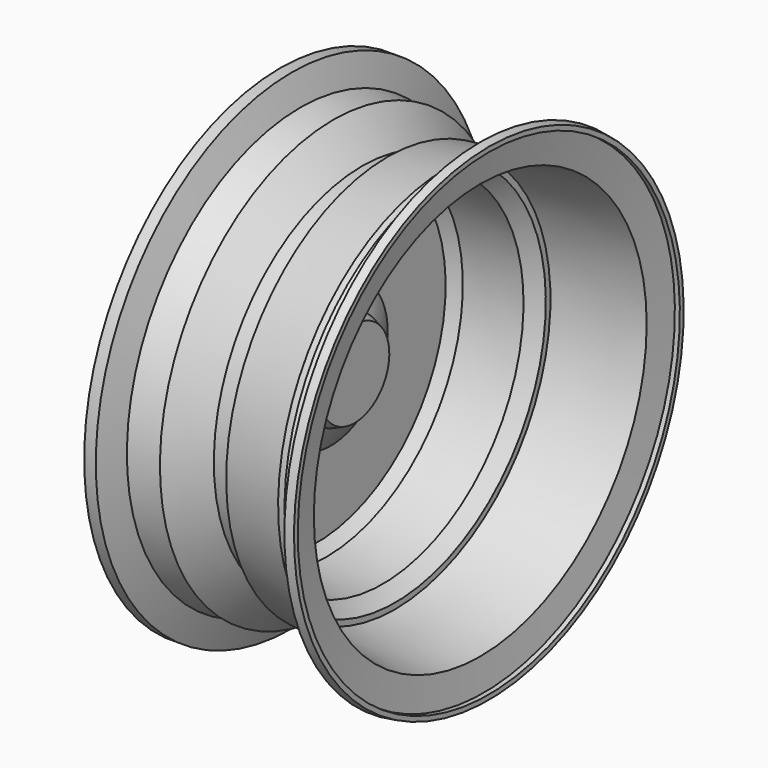
from build123d import *


with BuildPart() as f1:
    # F0 (on Front) → F1 (revolve)
    with BuildSketch(Plane.XZ):
        Polygon((5.101309, 70.075877), (0, 70.075877), (0, 68.68496), (1.546612, 69.017775), (1.546612, 65.19179), (3.493164, 64.654812), (5.775328, 54.049462), (14.635496, 51.230315), (14.635496, 47.836304), (10.16725, 43.687928), (10.16725, -9.660219), (20.394862, -11.620327), (25.411999, -20.876987), (25.411999, -37.358359), (32.686792, -37.358359), (32.686792, -18.305814), (28.057085, -16.390074), (22.309862, -6.172789), (16.10519, -4.842204), (16.10519, 33.313304), (20.394862, 37.377201), (45.050226, 39.85405), (50.47816, 45.281984), (50.47816, 47.836304), (87.826721, 53.909241), (89.407131, 67.406461), (91.588087, 67.406461), (91.588087, 69.501564), (87.826721, 70.075877), (85.940949, 57.725336), (84.473111, 55.494221), (77.600193, 54.583474), (76.215856, 55.494221), (73.410715, 55.494221), (72.228983, 53.697988), (47.168646, 51.145699), (42.422369, 43.931354), (35.967432, 43.931354), (23.358624, 57.725336), (23.358624, 53.697988), (8.860168, 57.725336), align=None)
    revolve(axis=Axis((29.049396, 0, -37.358359), (-1, 0, 0)))


solid = f1.part
